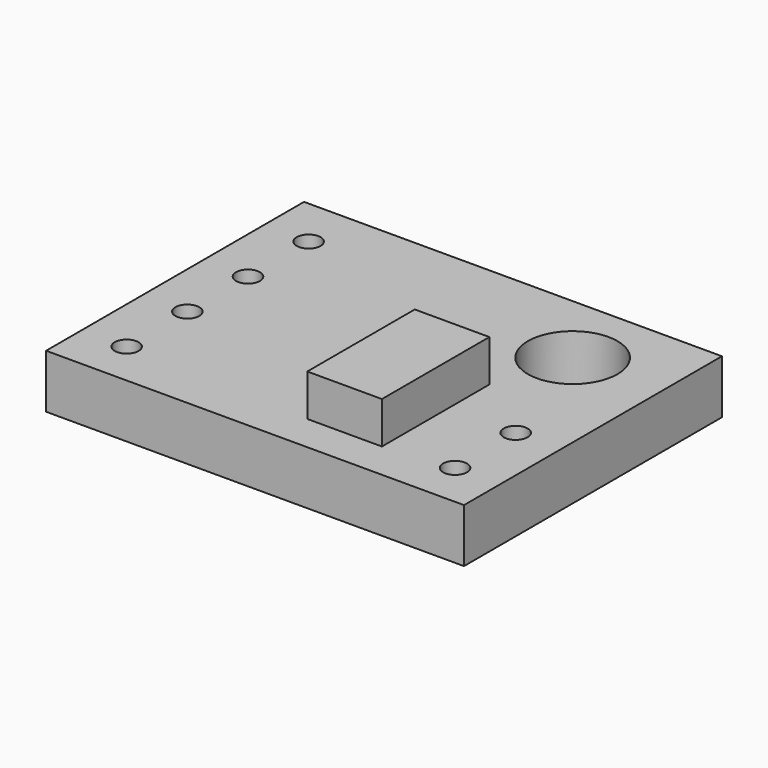
from build123d import *

# Parameters (mm, degrees)
SKETCH_W     = 14
SKETCH_H     = 10.8
SKETCH_R     = 1.5
SKETCH_R_2   = 0.4
PAD_DEPTH    = 1.8
SKETCH001_W  = 2.5
SKETCH001_H  = 4.5
PAD001_DEPTH = 1.4


with BuildPart() as part:
    # Sketch → Pad (new body)
    with BuildSketch(Plane.XY):
        with Locations((-2, 1.9)):
            Rectangle(SKETCH_W, SKETCH_H)
        with Locations((2, 4.8)):
            Circle(SKETCH_R, mode=Mode.SUBTRACT)
        with Locations((3.5, 0.54)):
            Circle(SKETCH_R_2, mode=Mode.SUBTRACT)
        with Locations((3.5, -2)):
            Circle(SKETCH_R_2, mode=Mode.SUBTRACT)
        with Locations((-7.5, 5.62)):
            Circle(SKETCH_R_2, mode=Mode.SUBTRACT)
        with Locations((-7.5, 3.08)):
            Circle(SKETCH_R_2, mode=Mode.SUBTRACT)
        with Locations((-7.5, 0.54)):
            Circle(SKETCH_R_2, mode=Mode.SUBTRACT)
        with Locations((-7.5, -2)):
            Circle(SKETCH_R_2, mode=Mode.SUBTRACT)
    extrude(amount=PAD_DEPTH)

    # Sketch001 (on Face13 of Pad) → Pad001 (join)
    with BuildSketch(Plane.XY.offset(1.8)):
        Rectangle(SKETCH001_W, SKETCH001_H)
    extrude(amount=PAD001_DEPTH)


solid = part.part
